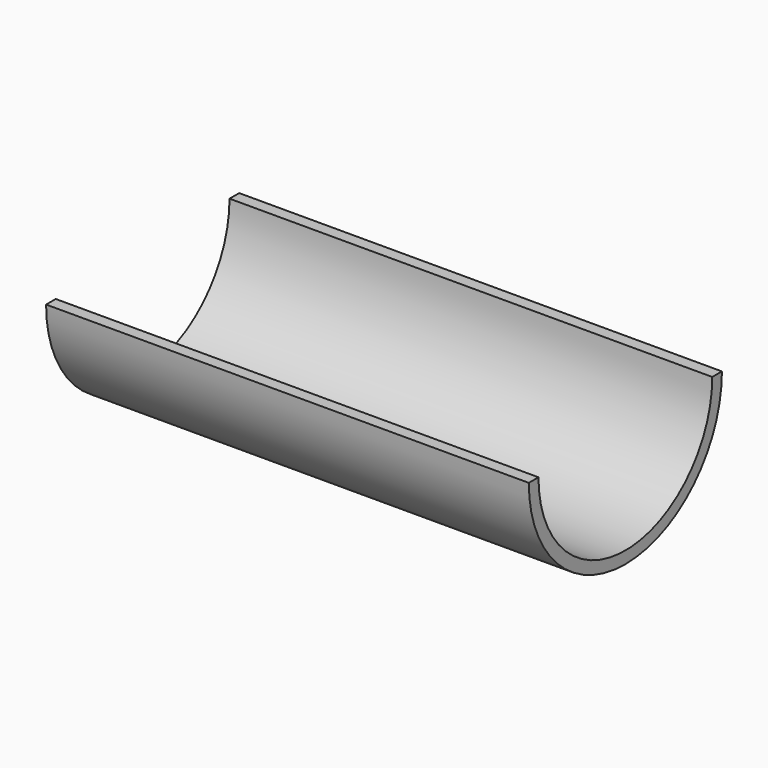
from build123d import *

# Parameters (mm, degrees)
F1_DEPTH      = 50.8
F1_DEPTH_BACK = 50.8


with BuildPart() as f1:
    # F0 (on Right) → F1 (new body, two sides)
    with BuildSketch(Plane.YZ) as f1_sk:
        with BuildLine():
            Line((-22.86, 0), (-25.4, 0))
            ThreePointArc((-25.4, 0), (0, -25.4), (25.4, 0))
            Line((25.4, 0), (22.86, 0))
            ThreePointArc((22.86, 0), (0, -22.86), (-22.86, 0))
        make_face()
    extrude(amount=F1_DEPTH)
    extrude(f1_sk.sketch, amount=-F1_DEPTH_BACK)


solid = f1.part
